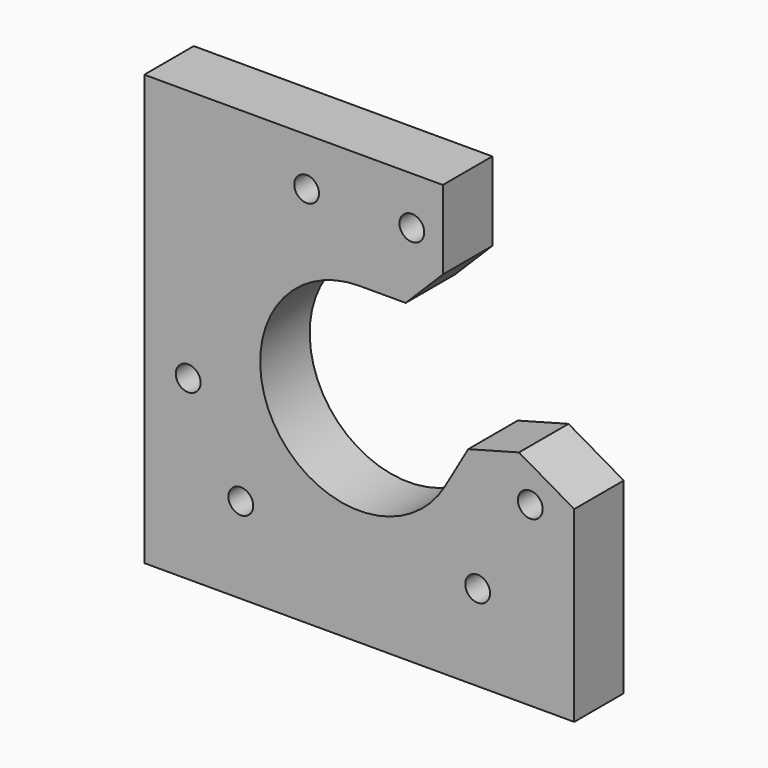
from build123d import *

# Parameters (mm, degrees)
F0_W     = 80
F0_H     = 80
F0_R     = 2
F0_R_2   = 16
F1_DEPTH = 10
F2_W     = 80
F2_H     = 80
F2_W_2   = 69.46222
F2_H_2   = 69.46222
F3_DEPTH = 25
F5_DEPTH = 25


with BuildPart() as f1:
    # F0 (on Front) → F1 (new body)
    with BuildSketch(Plane.XZ):
        Rectangle(F0_W, F0_H)
        with Locations((-19.132686, -20.861216)):
            Circle(F0_R, mode=Mode.SUBTRACT)
        with Locations((-27.632686, -6.138784)):
            Circle(F0_R, mode=Mode.SUBTRACT)
        with Locations((19.132686, -20.861216)):
            Circle(F0_R, mode=Mode.SUBTRACT)
        with Locations((27.632686, -6.138784)):
            Circle(F0_R, mode=Mode.SUBTRACT)
        with Locations((-8.5, 27)):
            Circle(F0_R, mode=Mode.SUBTRACT)
        Circle(F0_R_2, mode=Mode.SUBTRACT)
        with Locations((8.5, 27)):
            Circle(F0_R, mode=Mode.SUBTRACT)
    extrude(amount=F1_DEPTH)

    # F2 (on face) → F3 (cut)
    with BuildSketch(Plane.XZ.offset(10)):
        Rectangle(F2_W, F2_H)
        Rectangle(F2_W_2, F2_H_2, mode=Mode.SUBTRACT)
    extrude(amount=-F3_DEPTH, mode=Mode.SUBTRACT)

    # F4 (on face) → F5 (cut)
    with BuildSketch(Plane.XZ.offset(10)):
        Polygon((17.606406, -1.504809), (25.802559, 0.691343), (41.845802, -8.571228), (36.725588, 37.045255), (13.5, 34.73111), (13.5, 22), (7.5, 16), (0, 16), (13.856406, -8), align=None)
    extrude(amount=-F5_DEPTH, mode=Mode.SUBTRACT)


solid = f1.part
